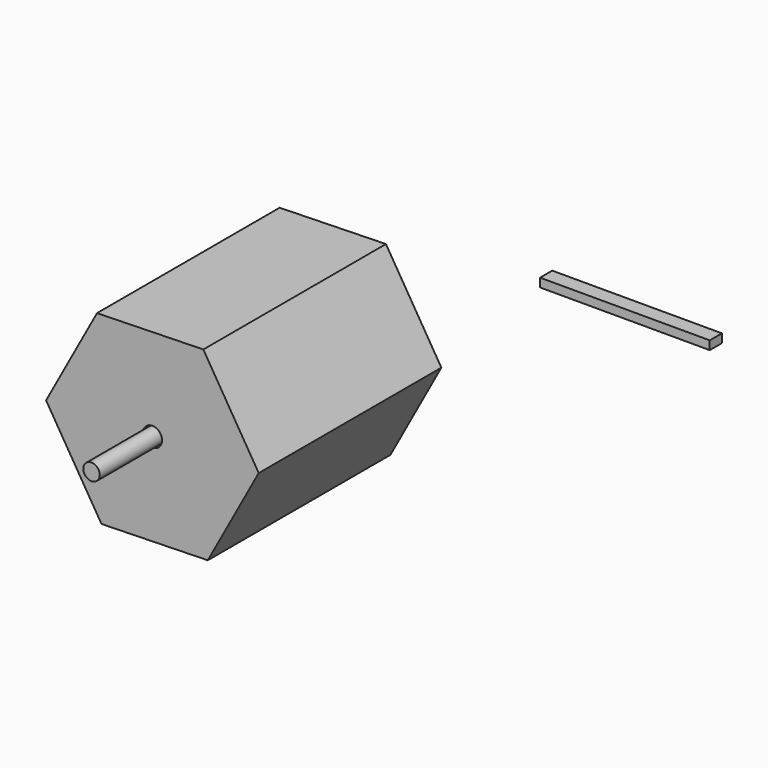
from build123d import *

# Parameters (mm, degrees)
F0_R     = 1.265608
F1_DEPTH = 30
F2_R     = 1.082601
F3_DEPTH = 40
F4_W     = 22.298387
F4_H     = 1.138642
F5_DEPTH = 2


with BuildPart() as f1:
    # F0 (on Front) → F1 (new body)
    with BuildSketch(Plane.XZ):
        Polygon((7.279668, -11.930907), (13.972302, 0.338924), (6.692634, 12.26983), (-7.279668, 11.930907), (-13.972302, -0.338924), (-6.692634, -12.26983), align=None)
        Circle(F0_R, mode=Mode.SUBTRACT)
    extrude(amount=F1_DEPTH)


with BuildPart() as f3:
    # F2 (on Front) → F3 (new body)
    with BuildSketch(Plane.XZ):
        Circle(F2_R)
    extrude(amount=F3_DEPTH)


with BuildPart() as f5:
    # F4 (on Front) → F5 (new body)
    with BuildSketch(Plane.XZ):
        with Locations((39.693181, 15.732166)):
            Rectangle(F4_W, F4_H)
    extrude(amount=F5_DEPTH)


solid = Compound([f1.part, f3.part, f5.part])
